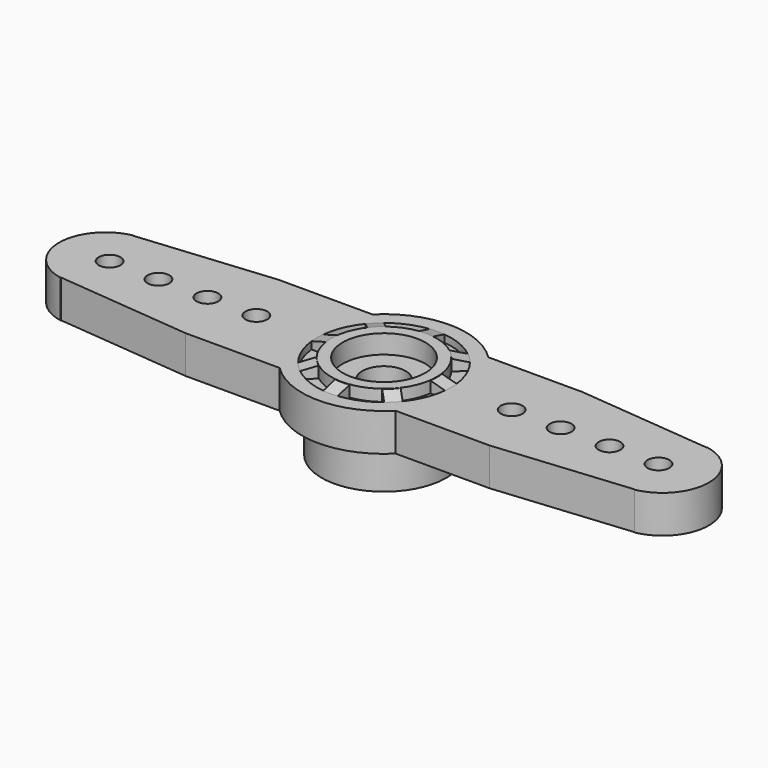
from build123d import *

# Parameters (mm, degrees)
PAD_DEPTH             = 2.6
SKETCH001_R           = 3.625
SKETCH001_R_2         = 2.85
PAD001_DEPTH          = 2.9
SKETCH002_R           = 4.625
SKETCH002_R_2         = 3.625
POCKET_DEPTH          = 0.5
PAD002_DEPTH          = 0.5
POLARPATTERN_COUNT    = 8
SKETCH004_R           = 2.85
POCKET001_DEPTH       = 1.3
SKETCH005_R           = 1.5
POCKET002_DEPTH       = 5
SKETCH006_R           = 0.75
POCKET003_DEPTH       = 5
POLARPATTERN001_COUNT = 4
SKETCH007_R           = 4.3
PAD003_DEPTH          = 3
POCKET004_DEPTH       = 5
POCKET004_DEPTH_BACK  = 0.5
POLARPATTERN002_COUNT = 25
POCKET010_DEPTH       = 5


with BuildPart() as part:
    # Sketch → Pad (new body)
    with BuildSketch(Plane.XY):
        with BuildLine():
            ThreePointArc((3.1440666838, 19.7956884151), (0, 22.4), (-3.1440666838, 19.7956884151))
            Line((-3.1440666838, 19.7956884151), (-5, 10))
            Line((-5, 10), (-5, 5))
            Line((-5, 5), (-10, 5))
            Line((-10, 5), (-19.7956884151, 3.1440666838))
            ThreePointArc((-19.7956884151, 3.1440666838), (-22.4, 0), (-19.7956884151, -3.1440666838))
            Line((-10, -5), (-19.7956884151, -3.1440666838))
            Line((-5, -5), (-10, -5))
            Line((-5, -10), (-5, -5))
            Line((-3.1440666838, -19.7956884151), (-5, -10))
            ThreePointArc((-3.1440666838, -19.7956884151), (0, -22.4), (3.1440666838, -19.7956884151))
            Line((3.1440666838, -19.7956884151), (5, -10))
            Line((5, -10), (5, -5))
            Line((5, -5), (10, -5))
            Line((10, -5), (19.7956884151, -3.1440666838))
            ThreePointArc((19.7956884151, -3.1440666838), (22.4, 0), (19.7956884151, 3.1440666838))
            Line((10, 5), (19.7956884151, 3.1440666838))
            Line((5, 5), (10, 5))
            Line((5, 10), (5, 5))
            Line((3.1440666838, 19.7956884151), (5, 10))
        make_face()
    extrude(amount=PAD_DEPTH)

    # Sketch001 → Pad001 (join)
    with BuildSketch(Plane.XY):
        Circle(SKETCH001_R)
        Circle(SKETCH001_R_2, mode=Mode.SUBTRACT)
    extrude(amount=PAD001_DEPTH)

    # Sketch002 (on Face5 of Pad001) → Pocket (cut)
    with BuildSketch(Plane.XY.offset(2.6)):
        Circle(SKETCH002_R)
        Circle(SKETCH002_R_2, mode=Mode.SUBTRACT)
    extrude(amount=-POCKET_DEPTH, mode=Mode.SUBTRACT)

    # Sketch003 → Pad002 (join, symmetric)
    with BuildSketch(Plane.XZ):
        Polygon((3.537661, 2.9), (4.625, 2.6), (4.625, 2.1), (3.537661, 2.1), align=None)
    pad002 = extrude(amount=PAD002_DEPTH, both=True)

    # PolarPattern: Pad002 ×8 about axis
    polarpattern_axis = Axis((0, 0, 0), (0, 0, 1))
    for i in range(1, POLARPATTERN_COUNT):
        add(pad002.rotate(polarpattern_axis, i * 360 / POLARPATTERN_COUNT))

    # Sketch004 (on Face74 of PolarPattern) → Pocket001 (cut)
    with BuildSketch(Plane.XY.offset(2.9)):
        Circle(SKETCH004_R)
    extrude(amount=-POCKET001_DEPTH, mode=Mode.SUBTRACT)

    # Sketch005 (on Face66 of Pocket001) → Pocket002 (cut)
    with BuildSketch(Plane.XY.offset(1.6)):
        Circle(SKETCH005_R)
    extrude(amount=-POCKET002_DEPTH, mode=Mode.SUBTRACT)

    # Sketch006 → Pocket003 (cut)
    with BuildSketch(Plane.XY):
        with Locations((8.8, 0)):
            Circle(SKETCH006_R)
        with Locations((12.17411, 0)):
            Circle(SKETCH006_R)
        with Locations((15.54822, 0)):
            Circle(SKETCH006_R)
        with Locations((18.92233, 0)):
            Circle(SKETCH006_R)
    pocket003 = extrude(amount=POCKET003_DEPTH, mode=Mode.SUBTRACT)

    # PolarPattern001: Pocket003 ×4 about axis
    polarpattern001_axis = Axis((0, 0, 0), (0, 0, 1))
    for i in range(1, POLARPATTERN001_COUNT):
        add(pocket003.rotate(polarpattern001_axis, i * 360 / POLARPATTERN001_COUNT), mode=Mode.SUBTRACT)

    # Sketch007 → Pad003 (join)
    with BuildSketch(Plane.XY):
        Circle(SKETCH007_R)
    extrude(amount=-PAD003_DEPTH)

    # Sketch008 → Pocket004 (cut, two sides)
    with BuildSketch(Plane.XY) as pocket004_sk:
        with BuildLine():
            ThreePointArc((2.9950699672, 0.1719182704), (2.9874502188, 0.2741189345), (2.9763441039, 0.3759997007))
            Line((0, 0), (2.9763441039, 0.3759997007))
            Line((0, 0), (2.9763441039, -0.3759997007))
            ThreePointArc((2.9763441039, -0.3759997007), (2.9874502188, -0.2741189345), (2.9950699672, -0.1719182704))
            Line((2.703959, 0), (2.9950699672, -0.1719182704))
            Line((2.9950699672, 0.1719182704), (2.703959, 0))
        make_face()
    pocket004 = extrude(amount=-POCKET004_DEPTH, mode=Mode.SUBTRACT) + extrude(pocket004_sk.sketch, amount=POCKET004_DEPTH_BACK, mode=Mode.SUBTRACT)

    # PolarPattern002: Pocket004 ×25 about axis
    polarpattern002_axis = Axis((0, 0, 0), (0, 0, 1))
    for i in range(1, POLARPATTERN002_COUNT):
        add(pocket004.rotate(polarpattern002_axis, i * 360 / POLARPATTERN002_COUNT), mode=Mode.SUBTRACT)

    # Sketch018 → Pocket010 (cut)
    with BuildSketch(Plane.XY):
        with BuildLine():
            Line((3.9951533137, -3.9951533137), (10.473607, -3.9951533137))
            Line((10.473607, -3.9951533137), (19.782578, -3.113289))
            Line((19.782578, -3.113289), (19.782578, -24.394623))
            Line((19.782578, -24.394623), (-17.265368, -24.394623))
            Line((-19.782578, -3.113289), (-17.265368, -24.394623))
            Line((-10.473607, -3.9951552721), (-19.782578, -3.113289))
            Line((-3.9951513553, -3.9951552721), (-10.473607, -3.9951552721))
            ThreePointArc((-3.9951513553, -3.9951552721), (1.3848e-06, -5.65), (3.9951533137, -3.9951533137))
        make_face()
        with BuildLine():
            Line((3.9951533137, 3.9951533137), (10.473607, 3.9951533137))
            Line((10.473607, 3.9951533137), (19.782578, 3.113289))
            Line((19.782578, 3.113289), (19.782578, 24.394623))
            Line((19.782578, 24.394623), (-17.265368, 24.394623))
            Line((-19.782578, 3.113289), (-17.265368, 24.394623))
            Line((-10.473607, 3.9951552721), (-19.782578, 3.113289))
            Line((-3.9951513553, 3.9951552721), (-10.473607, 3.9951552721))
            ThreePointArc((3.9951533137, 3.9951533137), (1.3848e-06, 5.65), (-3.9951513553, 3.9951552721))
        make_face()
    extrude(amount=POCKET010_DEPTH, mode=Mode.SUBTRACT)


with BuildPart() as part_1:
    # Body placement: moved
    add(part.part.moved(Location((0, 50, 0))))


solid = part_1.part
